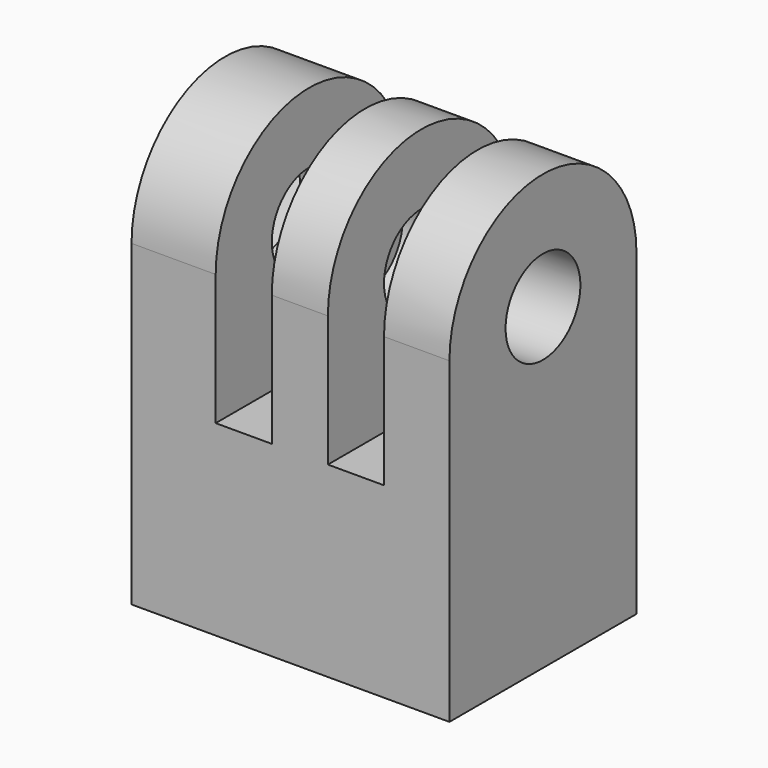
from build123d import *

# Parameters (mm, degrees)
F0_W     = 12.5
F0_H     = 5
F1_DEPTH = 17
F2_DEPTH = 2
F3_W     = 3
F3_H     = 20.822813987
F3_H_2   = 20
F4_DEPTH = 25
F5_W     = 17
F5_H     = 12.5
F5_W_2   = 10.3
F5_H_2   = 10.3
F6_DEPTH = 5


with BuildPart() as f1:
    # F0 (on Right) → F1 (new body)
    with BuildSketch(Plane.YZ):
        with BuildLine():
            ThreePointArc((6.25, 7), (0, 13.25), (-6.25, 7))
            Line((-6.25, 7), (-4.6188021535, 7))
            Line((-4.6188021535, 7), (-2.3094010768, 11))
            Line((-2.3094010768, 11), (2.3094010768, 11))
            Line((2.3094010768, 11), (4.6188021535, 7))
            Line((4.6188021535, 7), (6.25, 7))
        make_face()
        Polygon((-6.25, 7), (-6.25, 0), (6.25, 0), (6.25, 7), (4.6188021535, 7), (2.3094010768, 3), (-2.3094010768, 3), (-4.6188021535, 7), align=None)
        with BuildLine():
            Line((-2.5, 7), (-4.6188021535, 7))
            Line((-4.6188021535, 7), (-2.3094010768, 3))
            Line((-2.3094010768, 3), (2.3094010768, 3))
            Line((2.3094010768, 3), (4.6188021535, 7))
            Line((4.6188021535, 7), (2.5, 7))
            ThreePointArc((2.5, 7), (0, 4.5), (-2.5, 7))
        make_face()
        with BuildLine():
            Line((-2.3094010768, 11), (-4.6188021535, 7))
            Line((-4.6188021535, 7), (-2.5, 7))
            ThreePointArc((-2.5, 7), (0, 9.5), (2.5, 7))
            Line((2.5, 7), (4.6188021535, 7))
            Line((4.6188021535, 7), (2.3094010768, 11))
            Line((2.3094010768, 11), (-2.3094010768, 11))
        make_face()
        with Locations((0, -2.5)):
            Rectangle(F0_W, F0_H)
    extrude(amount=F1_DEPTH)

    # F0 (on Right) → F2 (cut)
    with BuildSketch(Plane.YZ):
        with BuildLine():
            Line((-2.3094010768, 11), (-4.6188021535, 7))
            Line((-4.6188021535, 7), (-2.5, 7))
            ThreePointArc((-2.5, 7), (0, 9.5), (2.5, 7))
            Line((2.5, 7), (4.6188021535, 7))
            Line((4.6188021535, 7), (2.3094010768, 11))
            Line((2.3094010768, 11), (-2.3094010768, 11))
        make_face()
        with BuildLine():
            Line((-2.5, 7), (-4.6188021535, 7))
            Line((-4.6188021535, 7), (-2.3094010768, 3))
            Line((-2.3094010768, 3), (2.3094010768, 3))
            Line((2.3094010768, 3), (4.6188021535, 7))
            Line((4.6188021535, 7), (2.5, 7))
            ThreePointArc((2.5, 7), (0, 4.5), (-2.5, 7))
        make_face()
    extrude(amount=F2_DEPTH, mode=Mode.SUBTRACT)

    # F3 (on Top) → F4 (cut)
    with BuildSketch(Plane.XY):
        with Locations((6, -0.3987241719)):
            Rectangle(F3_W, F3_H)
        with Locations((12, -1.1113596391)):
            Rectangle(F3_W, F3_H_2)
    extrude(amount=F4_DEPTH, mode=Mode.SUBTRACT)

    # F5 (on face) → F6 (join)
    with BuildSketch(Plane(origin=(0, 0, -5), x_dir=(1, 0, 0), z_dir=(0, 0, -1))):
        with Locations((8.5, 0)):
            Rectangle(F5_W, F5_H)
        with Locations((8.5, 0)):
            Rectangle(F5_W_2, F5_H_2, mode=Mode.SUBTRACT)
    extrude(amount=F6_DEPTH)


solid = f1.part
